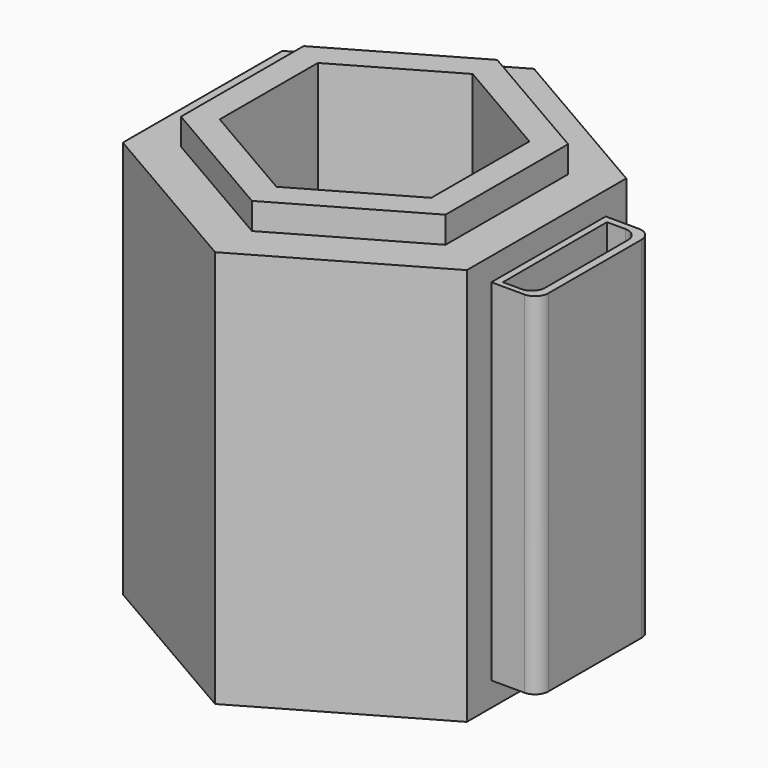
from build123d import *

# Parameters (mm, degrees)
F1_DEPTH = 30
F3_DEPTH = 25
F5_DEPTH = 2
F6_W     = 10.7590798289
F6_H     = 26.4430916868
F7_DEPTH = 3.5
F8_W     = 2.3892438039
F8_H     = 9.8118302412
F9_DEPTH = 26
F10_R    = 1


with BuildPart() as f1:
    # F0 (on Top) → F1 (new body)
    with BuildSketch(Plane.XY):
        Polygon((13.0044895149, 7.4755634337), (0.0282169163, 15), (-12.9762725986, 7.5244365663), (-13.0044895149, -7.4755634337), (-0.0282169163, -15), (12.9762725986, -7.5244365663), align=None)
    extrude(amount=-F1_DEPTH)

    # F2 (on face) → F3 (cut)
    with BuildSketch(Plane.XY):
        Polygon((7.9817117837, -4.6282847058), (7.999068023, 4.5982228174), (0.0173562394, 9.2265075233), (-7.9817117837, 4.6282847058), (-7.999068023, -4.5982228174), (-0.0173562394, -9.2265075233), align=None)
    extrude(amount=-F3_DEPTH, mode=Mode.SUBTRACT)

    # F4 (on face) → F5 (join)
    with BuildSketch(Plane.XY):
        Polygon((-9.9795361097, 5.78674545), (-10.0012366198, -5.7491590639), (-0.0217005101, -11.535904514), (9.9795361097, -5.78674545), (10.0012366198, 5.7491590639), (0.0217005101, 11.535904514), align=None)
        Polygon((0.0173562394, 9.2265075233), (7.999068023, 4.5982228174), (7.9817117837, -4.6282847058), (-0.0173562394, -9.2265075233), (-7.999068023, -4.5982228174), (-7.9817117837, 4.6282847058), align=None, mode=Mode.SUBTRACT)
    extrude(amount=F5_DEPTH)

    # F6 (on face) → F7 (join)
    with BuildSketch(Plane(origin=(12.9903810568, -0.0244365663, 0), x_dir=(0.0018811244, 0.9999982307, 0), z_dir=(0.9999982307, -0.0018811244, 0))):
        with Locations((0.1894203015, -14.9621136952)):
            Rectangle(F6_W, F6_H)
    extrude(amount=F7_DEPTH)

    # F8 (on face) → F9 (cut)
    with BuildSketch(Plane.XY.offset(-1.7405678518)):
        with Locations((14.7061855532, 0.1149831805)):
            Rectangle(F8_W, F8_H)
    extrude(amount=-F9_DEPTH, mode=Mode.SUBTRACT)

    # F10
    f10_edges = [f1.edges().sort_by_distance(p)[0] for p in [
        (16.480612, -5.221131, -14.962114),
        (16.500851, 5.53793, -14.962114),
        (15.900807, 5.020898, -14.740568),
        (15.900807, -4.790932, -14.740568),
    ]]
    fillet(f10_edges, radius=F10_R)


solid = f1.part
